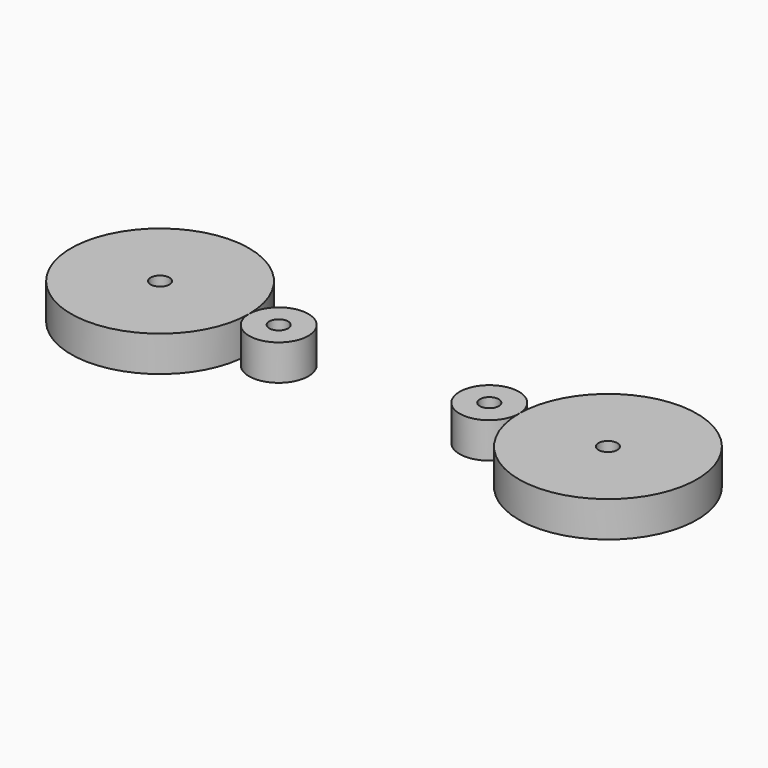
from build123d import *

# Parameters (mm, degrees)
F0_R     = 1.5875
F0_R_2   = 15
F0_R_3   = 5
F1_DEPTH = 6


with BuildPart() as f1:
    # F0 (on Top) → F1 (new body)
    with BuildSketch(Plane.XY):
        with BuildLine():
            ThreePointArc((-22.749078, 0), (-17.749078, -5), (-12.749078, 0))
            ThreePointArc((-12.749078, 0), (-17.749078, 5), (-22.749078, 0))
        make_face()
        with Locations((-17.749078, 0)):
            Circle(F0_R, mode=Mode.SUBTRACT)
        with Locations((-37.749078, 0)):
            Circle(F0_R_2)
        with Locations((-37.749078, 0)):
            Circle(F0_R, mode=Mode.SUBTRACT)
        with BuildLine():
            ThreePointArc((22.749078, 0), (37.749078, -15), (52.749078, 0))
            ThreePointArc((52.749078, 0), (37.749078, 15), (22.749078, 0))
        make_face()
        with Locations((37.749078, 0)):
            Circle(F0_R, mode=Mode.SUBTRACT)
        with Locations((17.749078, 0)):
            Circle(F0_R_3)
        with Locations((17.749078, 0)):
            Circle(F0_R, mode=Mode.SUBTRACT)
    extrude(amount=F1_DEPTH)


solid = f1.part
